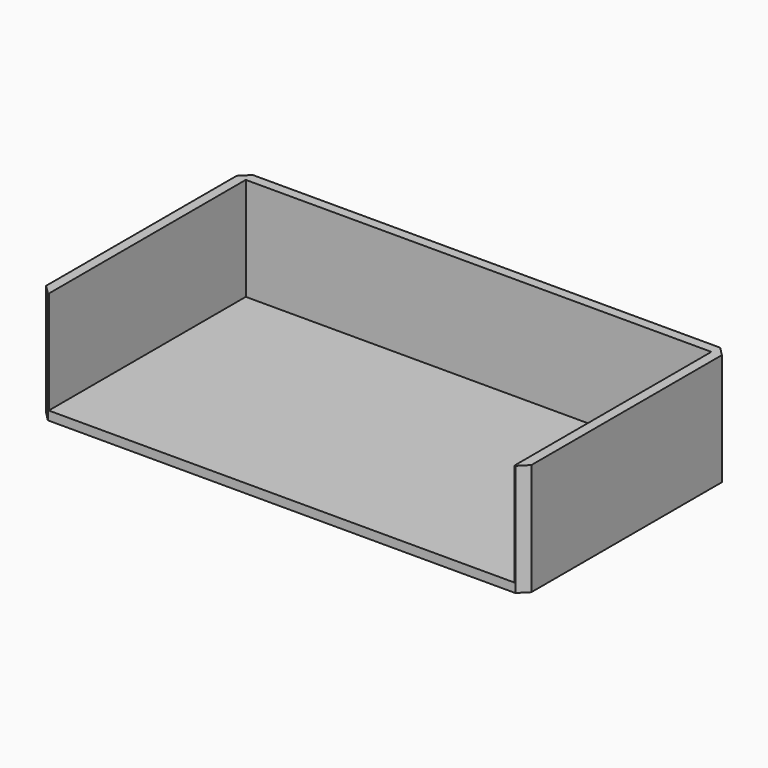
from build123d import *

# Parameters (mm, degrees)
F0_W     = 104
F0_H     = 55
F1_DEPTH = 2
F2_DEPTH = 25
F3_SIZE  = 2


with BuildPart() as f1:
    # F0 (on Top) → F1 (new body)
    with BuildSketch(Plane.XY):
        Rectangle(F0_W, F0_H)
    extrude(amount=F1_DEPTH)

    # F0 (on Top) → F2 (join)
    with BuildSketch(Plane.XY):
        Polygon((52, 27.5), (52, -27.5), (54.2, -27.5), (54.2, 29.7), (-54.2, 29.7), (-54.2, -27.5), (-52, -27.5), (-52, 27.5), align=None)
    extrude(amount=F2_DEPTH)

    # F3
    f3_edges = [f1.edges().sort_by_distance(p)[0] for p in [
        (54.2, 29.7, 12.5),
        (-54.2, 29.7, 12.5),
        (-54.2, -27.5, 12.5),
        (54.2, -27.5, 12.5),
    ]]
    chamfer(f3_edges, length=F3_SIZE)


solid = f1.part
